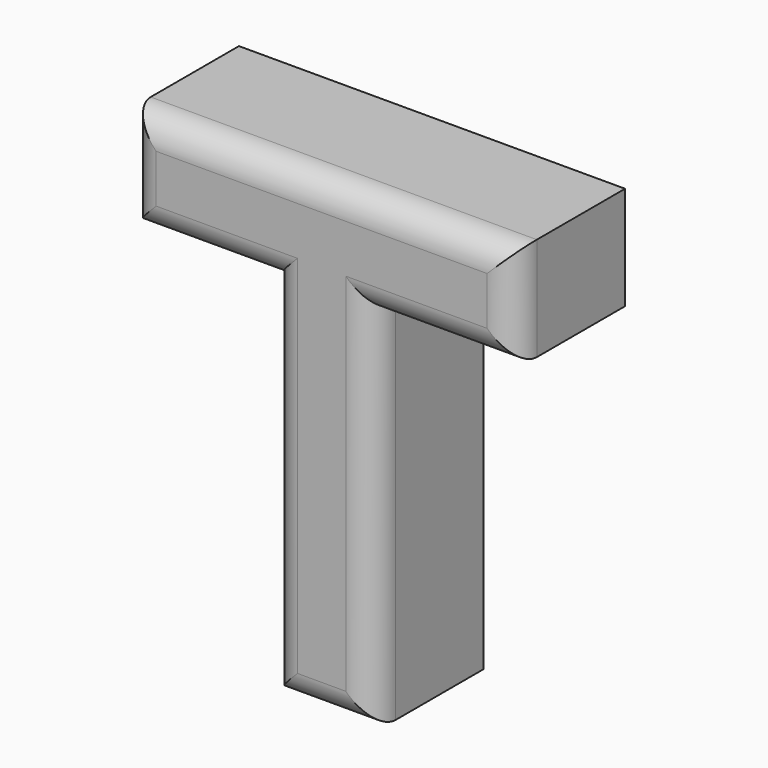
from build123d import *

# Parameters (mm, degrees)
F1_DEPTH = 25.4
F2_R     = 5.08


with BuildPart() as f1:
    # F0 (on Front) → F1 (new body)
    with BuildSketch(Plane.XZ):
        Polygon((-35.56, 43.18), (-35.56, 24.13), (-9.525, 24.13), (-9.525, -43.18), (9.525, -43.18), (9.525, 24.13), (35.56, 24.13), (35.56, 43.18), align=None)
    extrude(amount=F1_DEPTH)

    # F2
    f2_edges = [f1.edges().sort_by_distance(p)[0] for p in [
        (0, -25.4, 43.18),
        (35.56, -25.4, 33.655),
        (22.5425, -25.4, 24.13),
        (9.525, -25.4, -9.525),
        (0, -25.4, -43.18),
        (-9.525, -25.4, -9.525),
        (-22.5425, -25.4, 24.13),
        (-35.56, -25.4, 33.655),
    ]]
    fillet(f2_edges, radius=F2_R)


solid = f1.part
